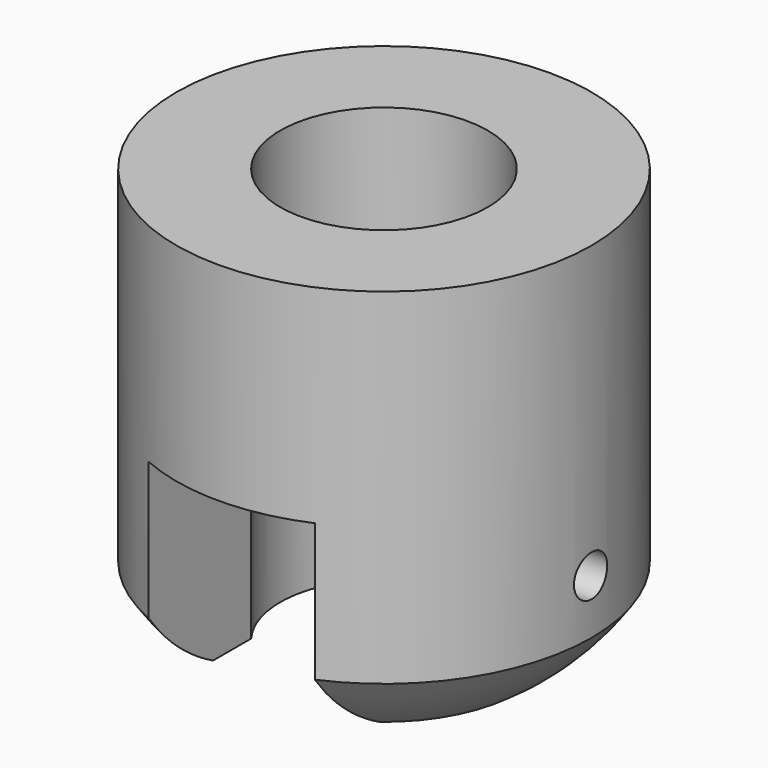
from build123d import *

# Parameters (mm, degrees)
CYLINDER037_R     = 3
CYLINDER037_DEPTH = 10
CYLINDER036_R     = 5
CYLINDER036_DEPTH = 4
CYLINDER035_R     = 0.5
CYLINDER035_DEPTH = 10
CYLINDER034_R     = 2.5
CYLINDER034_DEPTH = 10
BOX012_W          = 4
BOX012_H          = 10
BOX012_DEPTH      = 5
CYLINDER033_R     = 5
CYLINDER033_DEPTH = 10


with BuildPart() as cylinder037:
    # Cylinder037 → Cylinder037 (new body)
    with BuildSketch(Plane(origin=(18, 0, -6), x_dir=(1, 0, 0), z_dir=(0, 0, 1))):
        Circle(CYLINDER037_R)
    extrude(amount=CYLINDER037_DEPTH)


with BuildPart() as cut031:
    # Cylinder036 → Cylinder036 (new body)
    with BuildSketch(Plane(origin=(18, 0, -4), x_dir=(1, 0, 0), z_dir=(0, 0, 1))):
        Circle(CYLINDER036_R)
    extrude(amount=CYLINDER036_DEPTH)

    # Cut031: cut Cylinder037
    add(cylinder037.part, mode=Mode.SUBTRACT)


with BuildPart() as cut031_1:
    # Cut031 placement: moved
    add(cut031.part.moved(Location((-18, 0, 0))))


with BuildPart() as sphere008:
    # Sphere008 → Sphere008 (revolve)
    with BuildSketch(Plane(origin=(0, 0, -5), x_dir=(1, 0, 0), z_dir=(0, -1, 0))):
        with BuildLine():
            ThreePointArc((0, -6), (6, 0), (0, 6))
            Line((0, 6), (0, -6))
        make_face()
    revolve(axis=Axis((0, 0, -5), (0, 0, 1)))


with BuildPart() as cylinder035:
    # Cylinder035 → Cylinder035 (new body)
    with BuildSketch(Plane(origin=(5, 0, -7), x_dir=(0, 0, 1), z_dir=(-1, 0, 0))):
        Circle(CYLINDER035_R)
    extrude(amount=CYLINDER035_DEPTH)


with BuildPart() as cylinder034:
    # Cylinder034 → Cylinder034 (new body)
    with BuildSketch(Plane.XY.offset(-10)):
        Circle(CYLINDER034_R)
    extrude(amount=CYLINDER034_DEPTH)


with BuildPart() as cube012:
    # Box012 → Box012 (new body)
    with BuildSketch(Plane(origin=(-2, -5, -10), x_dir=(1, 0, 0), z_dir=(0, 0, 1))):
        with Locations((2, 5)):
            Rectangle(BOX012_W, BOX012_H)
    extrude(amount=BOX012_DEPTH)


with BuildPart() as fusion005011:
    # Cylinder033 → Cylinder033 (new body)
    with BuildSketch(Plane.XY.offset(-10)):
        Circle(CYLINDER033_R)
    extrude(amount=CYLINDER033_DEPTH)

    # Cut028: cut Cube012
    add(cube012.part, mode=Mode.SUBTRACT)

    # Cut029: cut Cylinder034
    add(cylinder034.part, mode=Mode.SUBTRACT)

    # Cut030: cut Cylinder035
    add(cylinder035.part, mode=Mode.SUBTRACT)

    # Common006: intersect Sphere008
    add(sphere008.part, mode=Mode.INTERSECT)

    # Fusion005010: union Cut031
    add(cut031_1.part)


with BuildPart() as fusion005011_1:
    # Fusion005011 placement: moved
    add(fusion005011.part.moved(Location((0, 0, -37))))


solid = fusion005011_1.part
